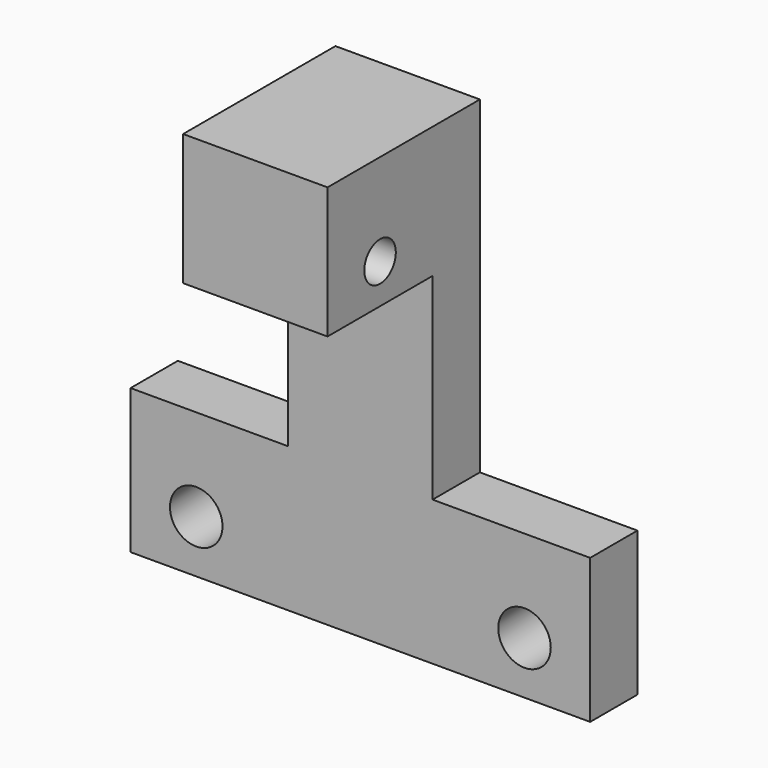
from build123d import *

# Parameters (mm, degrees)
F0_W      = 35
F0_H      = 45
F1_DEPTH  = 4.5
F2_R      = 2
F3_DEPTH  = 10
F4_W      = 35
F4_H      = 10
F5_DEPTH  = 10
F6_R      = 3
F7_DEPTH  = 6
F8_W      = 35
F8_H      = 4.5
F9_DEPTH  = 2
F10_W     = 12
F10_H     = 25
F11_DEPTH = 14.501
F12_R     = 1.5
F13_DEPTH = 23.001
F14_W     = 35
F14_H     = 6
F15_DEPTH = 4.501
F16_W     = 35
F16_H     = 4.5
F17_DEPTH = 1


with BuildPart() as f1:
    # F0 (on Front) → F1 (new body)
    with BuildSketch(Plane.XZ):
        with Locations((0, 2.5)):
            Rectangle(F0_W, F0_H)
    extrude(amount=F1_DEPTH)

    # F2 (on face) → F3 (cut)
    with BuildSketch(Plane.XZ.offset(4.5)):
        with Locations((12.5, -15)):
            Circle(F2_R)
        with Locations((-12.5, -15)):
            Circle(F2_R)
        with Locations((-12.5, -7)):
            Circle(F2_R)
        with Locations((12.5, -7)):
            Circle(F2_R)
    extrude(amount=-F3_DEPTH, mode=Mode.SUBTRACT)

    # F4 (on face) → F5 (join)
    with BuildSketch(Plane.XZ.offset(4.5)):
        with Locations((0, 20)):
            Rectangle(F4_W, F4_H)
    extrude(amount=F5_DEPTH)

    # F6 (on face) → F7 (cut)
    with BuildSketch(Plane(origin=(0, 0, 15), x_dir=(1, 0, 0), z_dir=(0, 0, -1))):
        with Locations((0, 9.5)):
            Circle(F6_R)
    extrude(amount=-F7_DEPTH, mode=Mode.SUBTRACT)

    # F8 (on face) → F9 (cut)
    with BuildSketch(Plane(origin=(0, 0, -20), x_dir=(1, 0, 0), z_dir=(0, 0, -1))):
        with Locations((0, 2.25)):
            Rectangle(F8_W, F8_H)
    extrude(amount=-F9_DEPTH, mode=Mode.SUBTRACT)

    # F10 (on face) → F11 (cut, through all)
    with BuildSketch(Plane.XZ.offset(14.5)):
        with Locations((-11.5, 12.5)):
            Rectangle(F10_W, F10_H)
        with Locations((11.5, 12.5)):
            Rectangle(F10_W, F10_H)
    extrude(amount=-F11_DEPTH, mode=Mode.SUBTRACT)

    # F12 (on face) → F13 (cut, through all)
    with BuildSketch(Plane.YZ.offset(5.5)):
        with Locations((-9.5, 18)):
            Circle(F12_R)
    extrude(amount=-F13_DEPTH, mode=Mode.SUBTRACT)

    # F14 (on face) → F15 (cut, through all)
    with BuildSketch(Plane.XZ.offset(4.5)):
        with Locations((0, -15)):
            Rectangle(F14_W, F14_H)
    extrude(amount=-F15_DEPTH, mode=Mode.SUBTRACT)

    # F16 (on face) → F17 (cut)
    with BuildSketch(Plane(origin=(0, 0, -12), x_dir=(1, 0, 0), z_dir=(0, 0, -1))):
        with Locations((0, 2.25)):
            Rectangle(F16_W, F16_H)
    extrude(amount=-F17_DEPTH, mode=Mode.SUBTRACT)


solid = f1.part
